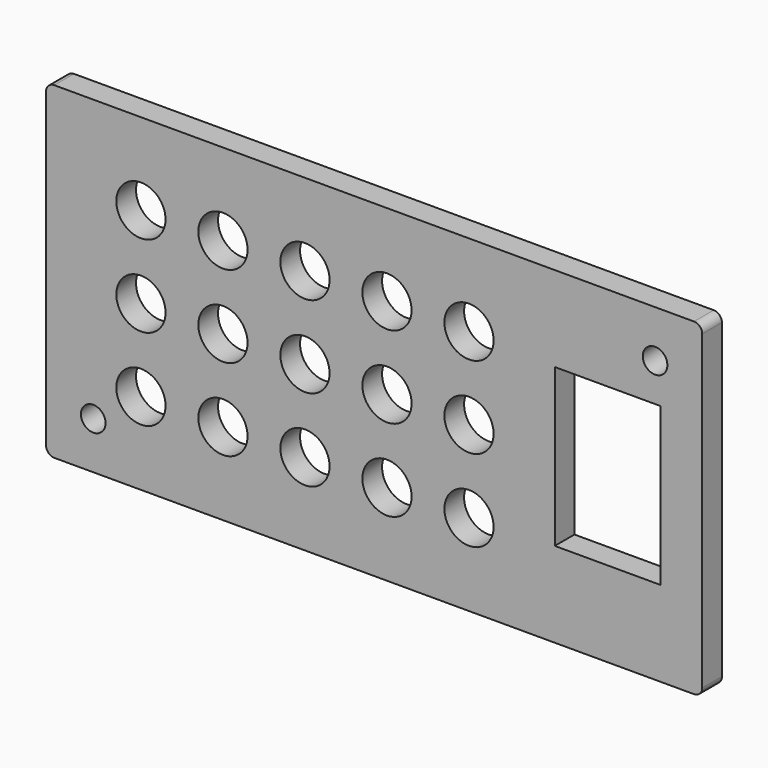
from build123d import *

# Parameters (mm, degrees)
F0_W     = 80
F0_H     = 40
F2_DEPTH = 3
F1_R     = 3
F1_W     = 12.9
F1_H     = 19.2
F3_DEPTH = 3.001
F4_R     = 1
F5_R     = 1.5
F6_DEPTH = 25


with BuildPart() as f2:
    # F0 (on Front) → F2 (new body)
    with BuildSketch(Plane.XZ):
        Rectangle(F0_W, F0_H)
    extrude(amount=F2_DEPTH)

    # F1 (on face) → F3 (cut, through all)
    with BuildSketch(Plane.XZ):
        with Locations((-28.43621, 10)):
            Circle(F1_R)
        with Locations((-28.43621, 0)):
            Circle(F1_R)
        with Locations((-28.43621, -10)):
            Circle(F1_R)
        with Locations((-18.43621, 10)):
            Circle(F1_R)
        with Locations((-18.43621, 0)):
            Circle(F1_R)
        with Locations((-18.43621, -10)):
            Circle(F1_R)
        with Locations((-8.43621, 10)):
            Circle(F1_R)
        with Locations((-8.43621, 0)):
            Circle(F1_R)
        with Locations((-8.43621, -10)):
            Circle(F1_R)
        with Locations((1.56379, 10)):
            Circle(F1_R)
        with Locations((1.56379, 0)):
            Circle(F1_R)
        with Locations((1.56379, -10)):
            Circle(F1_R)
        with Locations((11.56379, 10)):
            Circle(F1_R)
        with Locations((11.56379, 0)):
            Circle(F1_R)
        with Locations((11.56379, -10)):
            Circle(F1_R)
        with Locations((28.4711, -0.004033)):
            Rectangle(F1_W, F1_H)
    extrude(amount=F3_DEPTH, mode=Mode.SUBTRACT)

    # F4
    f4_edges = [f2.edges().sort_by_distance(p)[0] for p in [
        (-40, -1.5, 20),
        (40, -1.5, 20),
        (40, -1.5, -20),
        (-40, -1.5, -20),
    ]]
    fillet(f4_edges, radius=F4_R)

    # F5 (on face) → F6 (cut)
    with BuildSketch(Plane.XZ.offset(3)):
        with Locations((34.25, 14.25)):
            Circle(F5_R)
        with Locations((-34.25, -14.25)):
            Circle(F5_R)
    extrude(amount=-F6_DEPTH, mode=Mode.SUBTRACT)


solid = f2.part
